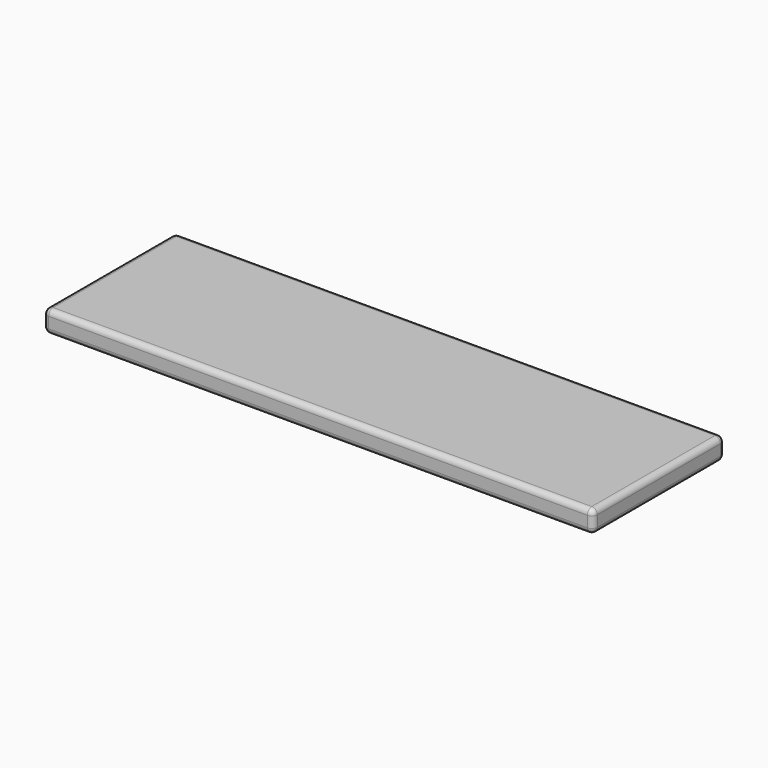
from build123d import *

# Parameters (mm, degrees)
F0_W     = 100
F0_H     = 30
F1_DEPTH = 4
F2_R     = 1


with BuildPart() as f1:
    # F0 (on Top) → F1 (new body)
    with BuildSketch(Plane.XY):
        Rectangle(F0_W, F0_H)
    extrude(amount=-F1_DEPTH)

    # F2
    f2_edges = [f1.edges().sort_by_distance(p)[0] for p in [
        (0, 15, 0),
        (0, 15, -4),
        (-50, 0, 0),
        (-50, 0, -4),
        (-50, 15, -2),
        (50, 15, -2),
        (50, 0, -4),
        (50, 0, 0),
        (50, -15, -2),
        (0, -15, -4),
        (0, -15, 0),
        (-50, -15, -2),
    ]]
    fillet(f2_edges, radius=F2_R)


solid = f1.part
